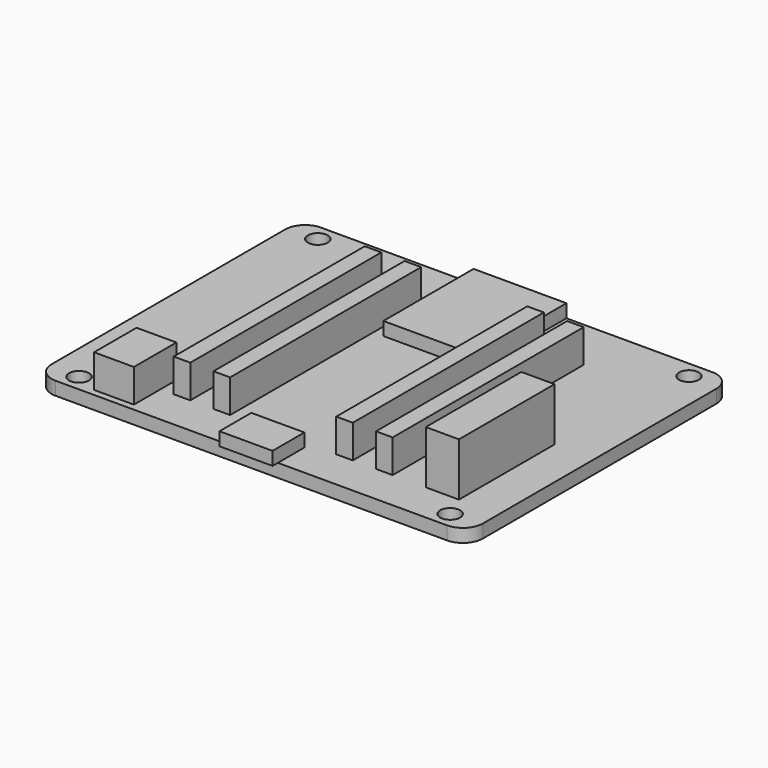
from build123d import *

# Parameters (mm, degrees)
F0_R     = 1.5
F0_W     = 6
F0_H     = 8
F0_W_2   = 2.5
F0_H_2   = 36
F0_W_3   = 5
F0_H_3   = 18
F0_W_4   = 8
F0_H_4   = 5
F0_W_5   = 14
F0_H_5   = 17
F1_DEPTH = 2
F2_DEPTH = 7
F3_START = 2
F3_DEPTH = 2
F4_DEPTH = 10
F5_START = 2
F0_H_6   = 1
F5_DEPTH = 2
F6_START = 2
F6_DEPTH = 5


with BuildPart() as f1:
    # F0 (on Top) → F1 (new body)
    with BuildSketch(Plane.XY):
        with BuildLine():
            Line((4, -25), (29.5, -25))
            ThreePointArc((29.5, -25), (31.6213203436, -24.1213203436), (32.5, -22))
            Line((32.5, -22), (32.5, 22))
            ThreePointArc((32.5, 22), (31.6213203436, 24.1213203436), (29.5, 25))
            Line((29.5, 25), (7.5, 25))
            Line((7.5, 25), (7.5, 8))
            Line((7.5, 8), (-6.5, 8))
            Line((-6.5, 8), (-6.5, 25))
            Line((-6.5, 25), (-29.5, 25))
            ThreePointArc((-29.5, 25), (-31.6213203436, 24.1213203436), (-32.5, 22))
            Line((-32.5, 22), (-32.5, -22))
            ThreePointArc((-32.5, -22), (-31.6213203436, -24.1213203436), (-29.5, -25))
            Line((-29.5, -25), (-4, -25))
            Line((-4, -25), (-4, -20))
            Line((-4, -20), (4, -20))
            Line((4, -20), (4, -25))
        make_face()
        with Locations((-27.9677915107, -22.5000023739)):
            Circle(F0_R, mode=Mode.SUBTRACT)
        with Locations((-21.5, -20)):
            Rectangle(F0_W, F0_H, mode=Mode.SUBTRACT)
        with Locations((-15.25, -1)):
            Rectangle(F0_W_2, F0_H_2, mode=Mode.SUBTRACT)
        with Locations((-9.25, -1)):
            Rectangle(F0_W_2, F0_H_2, mode=Mode.SUBTRACT)
        with Locations((27.9677915107, -22.5000023739)):
            Circle(F0_R, mode=Mode.SUBTRACT)
        with Locations((9.25, -1)):
            Rectangle(F0_W_2, F0_H_2, mode=Mode.SUBTRACT)
        with Locations((15.25, -1)):
            Rectangle(F0_W_2, F0_H_2, mode=Mode.SUBTRACT)
        with Locations((24, -10)):
            Rectangle(F0_W_3, F0_H_3, mode=Mode.SUBTRACT)
        with Locations((-27.9677915107, 22.5000023739)):
            Circle(F0_R, mode=Mode.SUBTRACT)
        with Locations((27.9677915107, 22.5000023739)):
            Circle(F0_R, mode=Mode.SUBTRACT)
        with Locations((-21.5, -20)):
            Rectangle(F0_W, F0_H)
        with Locations((-15.25, -1)):
            Rectangle(F0_W_2, F0_H_2)
        with Locations((-9.25, -1)):
            Rectangle(F0_W_2, F0_H_2)
        with Locations((0, -22.5)):
            Rectangle(F0_W_4, F0_H_4)
        with Locations((9.25, -1)):
            Rectangle(F0_W_2, F0_H_2)
        with Locations((15.25, -1)):
            Rectangle(F0_W_2, F0_H_2)
        with Locations((24, -10)):
            Rectangle(F0_W_3, F0_H_3)
        with Locations((0.5, 16.5)):
            Rectangle(F0_W_5, F0_H_5)
    extrude(amount=F1_DEPTH)


with BuildPart() as f2:
    # F0 (on Top) → F2 (new body)
    with BuildSketch(Plane.XY):
        with Locations((9.25, -1)):
            Rectangle(F0_W_2, F0_H_2)
    extrude(amount=F2_DEPTH)


with BuildPart() as f2b:
    # F0 (on Top) → F2, piece 2 (new body)
    with BuildSketch(Plane.XY):
        with Locations((15.25, -1)):
            Rectangle(F0_W_2, F0_H_2)
    extrude(amount=F2_DEPTH)


with BuildPart() as f2c:
    # F0 (on Top) → F2, piece 3 (new body)
    with BuildSketch(Plane.XY):
        with Locations((-9.25, -1)):
            Rectangle(F0_W_2, F0_H_2)
    extrude(amount=F2_DEPTH)


with BuildPart() as f2d:
    # F0 (on Top) → F2, piece 4 (new body)
    with BuildSketch(Plane.XY):
        with Locations((-15.25, -1)):
            Rectangle(F0_W_2, F0_H_2)
    extrude(amount=F2_DEPTH)


with BuildPart() as f3:
    # F0 (on Top) → F3 (new body)
    with BuildSketch(Plane.XY.offset(F3_START)):
        with Locations((0.5, 16.5)):
            Rectangle(F0_W_5, F0_H_5)
    extrude(amount=F3_DEPTH)


with BuildPart() as f4:
    # F0 (on Top) → F4 (new body)
    with BuildSketch(Plane.XY):
        with Locations((24, -10)):
            Rectangle(F0_W_3, F0_H_3)
    extrude(amount=F4_DEPTH)


with BuildPart() as f5:
    # F0 (on Top) → F5 (new body)
    with BuildSketch(Plane.XY.offset(F5_START)):
        with Locations((0, -22.5)):
            Rectangle(F0_W_4, F0_H_4)
        with Locations((0, -25.5)):
            Rectangle(F0_W_4, F0_H_6)
    extrude(amount=F5_DEPTH)


with BuildPart() as f6:
    # F0 (on Top) → F6 (new body)
    with BuildSketch(Plane.XY.offset(F6_START)):
        with Locations((-21.5, -20)):
            Rectangle(F0_W, F0_H)
    extrude(amount=F6_DEPTH)


solid = Compound([f1.part, f2.part, f2b.part, f2c.part, f2d.part, f3.part, f4.part, f5.part, f6.part])
